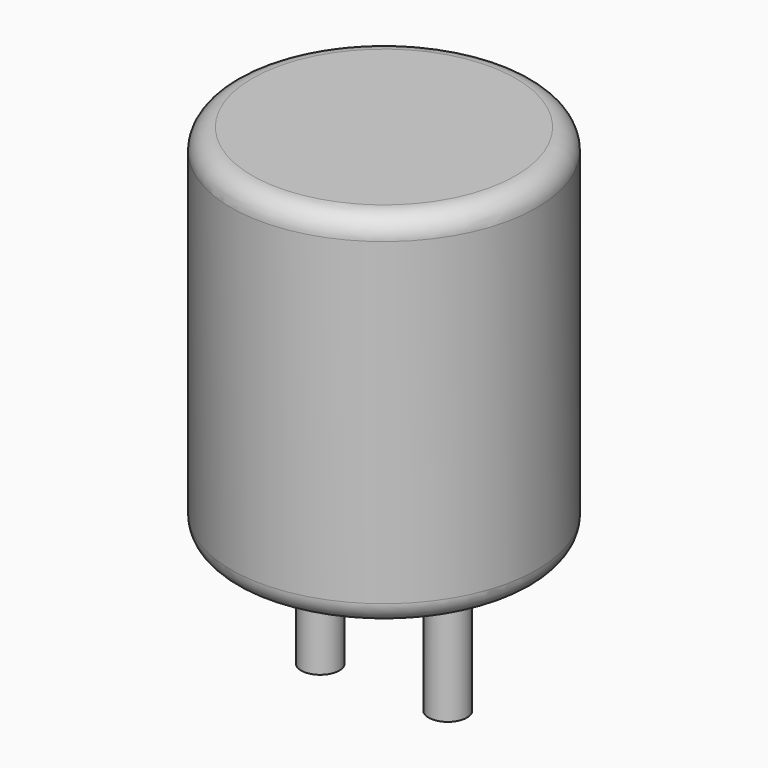
from build123d import *

# Parameters (mm, degrees)
SKETCH001_R       = 0.45
PAD001_DEPTH      = 4.25
PAD001_DEPTH_BACK = 3.5
SKETCH_R          = 3.6
PAD_DEPTH         = 8.5
FILLET_R          = 0.5


with BuildPart() as pad001:
    # Sketch001 → Pad001 (new body, two sides)
    with BuildSketch(Plane.XY.offset(0.5)) as pad001_sk:
        Circle(SKETCH001_R)
        with Locations((3, 0)):
            Circle(SKETCH001_R)
    extrude(amount=PAD001_DEPTH)
    extrude(pad001_sk.sketch, amount=-PAD001_DEPTH_BACK)


with BuildPart() as fillet_body:
    # Sketch → Pad (new body)
    with BuildSketch(Plane.XY.offset(0.1)):
        with Locations((1.5, 0)):
            Circle(SKETCH_R)
    extrude(amount=PAD_DEPTH)

    # Fillet
    fillet_edges = [fillet_body.edges().sort_by_distance(p)[0] for p in [
        (-2.1, 0, 0.1),
        (-2.1, 0, 8.6),
    ]]
    fillet(fillet_edges, radius=FILLET_R)


solid = Compound([pad001.part, fillet_body.part])
